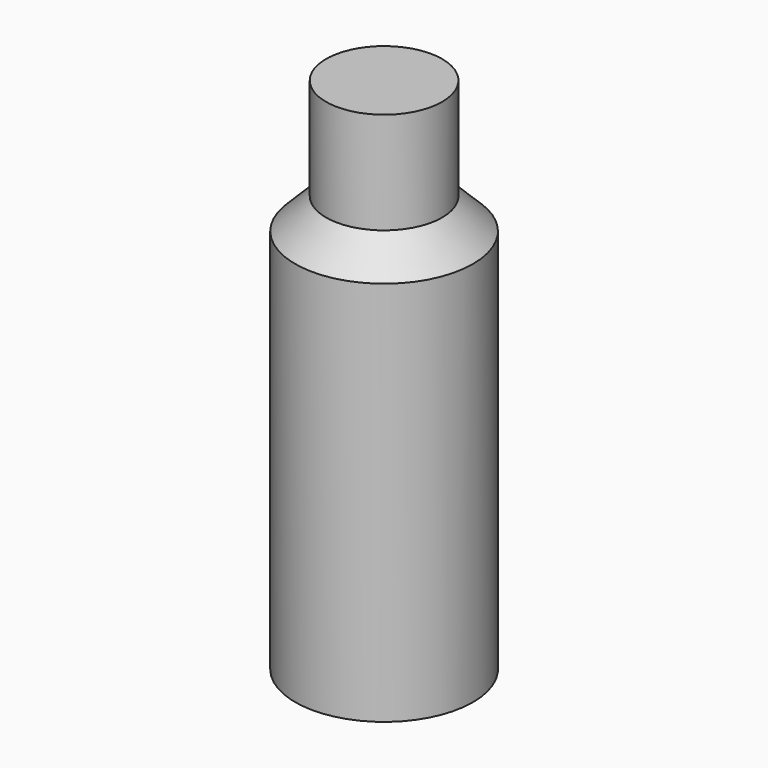
from build123d import *

# Parameters (mm, degrees)
F0_R      = 14.637001
F1_DEPTH  = 68.58
F2_SIZE   = 5.08
F1_FACE_R = 9.557001
F3_DEPTH  = 16.764


with BuildPart() as f1:
    # F0 (on Top) → F1 (new body)
    with BuildSketch(Plane.XY):
        with Locations((-54.797947, 12.446093)):
            Circle(F0_R)
    extrude(amount=F1_DEPTH)

    # F2
    f2_edges = [f1.edges().sort_by_distance(p)[0] for p in [
        (-69.434948, 12.446093, 68.58),
    ]]
    chamfer(f2_edges, length=F2_SIZE)

    # F1_face (on face) → F3 (join)
    with BuildSketch(Plane(origin=(-54.797947, 12.446093, 68.58), x_dir=(1, 0, 0), z_dir=(0, 0, 1))):
        Circle(F1_FACE_R)
    extrude(amount=F3_DEPTH)


solid = f1.part
